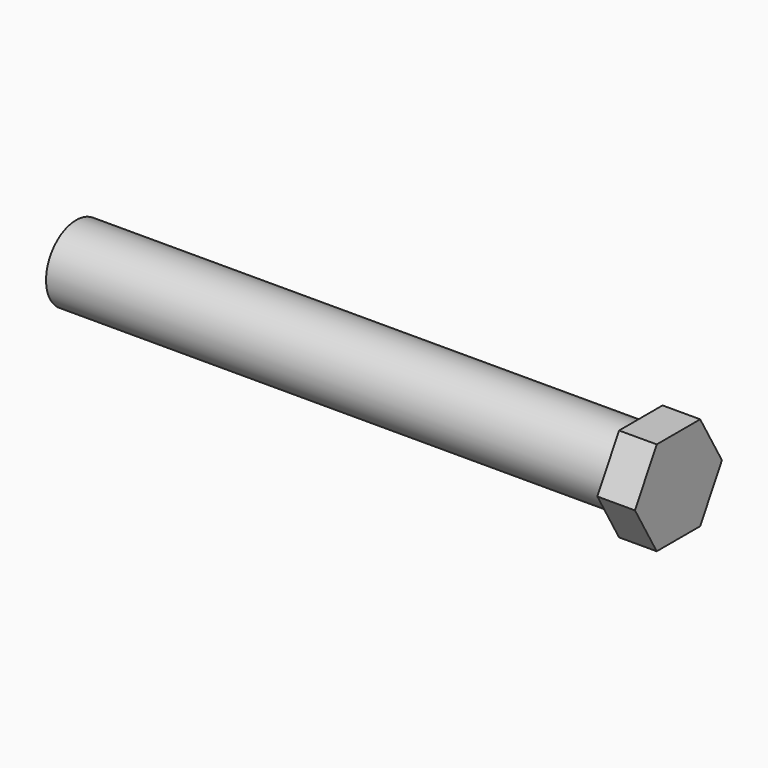
from build123d import *

# Parameters (mm, degrees)
F0_R     = 6.35
F1_DEPTH = 95.25
F3_DEPTH = 6.35


with BuildPart() as f1:
    # F0 (on Right) → F1 (new body)
    with BuildSketch(Plane.YZ):
        Circle(F0_R)
    extrude(amount=F1_DEPTH)

    # F2 (on face) → F3 (join)
    with BuildSketch(Plane.YZ.offset(95.25)):
        Polygon((4.582718, 7.9375), (-4.582718, 7.9375), (-9.165436, 0), (-4.582718, -7.9375), (4.582718, -7.9375), (9.165436, 0), align=None)
    extrude(amount=F3_DEPTH)


solid = f1.part
